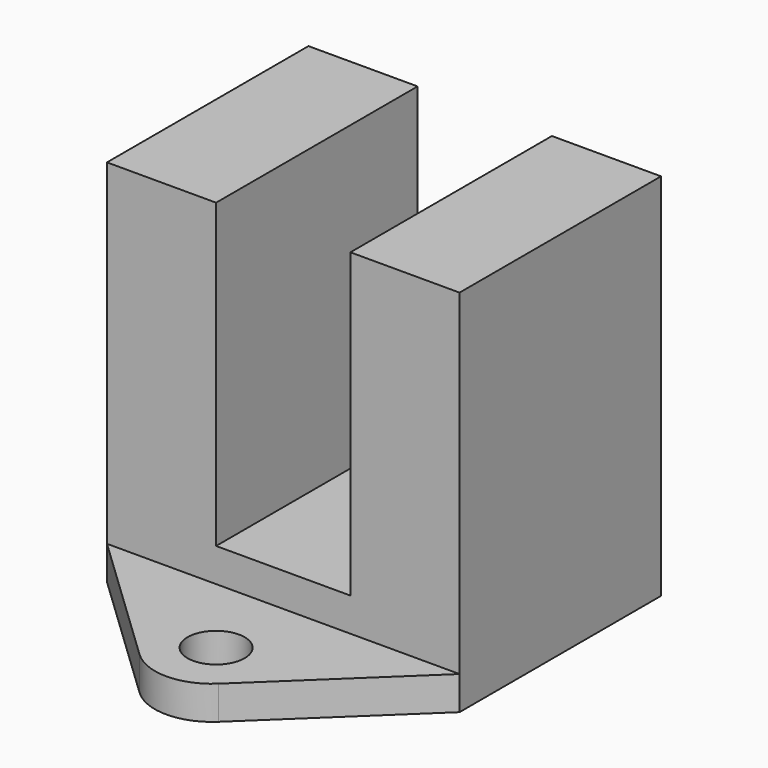
from build123d import *

# Parameters (mm, degrees)
F0_W     = 21
F0_H     = 15
F0_W_2   = 19.5
F0_H_2   = 12.75
F1_DEPTH = 22
F0_R     = 1.7
F2_DEPTH = 2
F3_R     = 3.4
F5_DEPTH = 18


with BuildPart() as f1:
    # F0 (on Top) → F1 (new body)
    with BuildSketch(Plane.XY):
        Rectangle(F0_W, F0_H)
        Rectangle(F0_W_2, F0_H_2, mode=Mode.SUBTRACT)
        Rectangle(F0_W_2, F0_H_2)
    extrude(amount=F1_DEPTH)

    # F0 (on Top) → F2 (join)
    with BuildSketch(Plane.XY):
        Polygon((10.5, -7.5), (-10.5, -7.5), (0, -17.5), align=None)
        with Locations((0, -12.5)):
            Circle(F0_R, mode=Mode.SUBTRACT)
        Polygon((0, 17.5), (-10.5, 7.5), (10.5, 7.5), align=None)
        with Locations((0, 12.5)):
            Circle(F0_R, mode=Mode.SUBTRACT)
    extrude(amount=F2_DEPTH)

    # F3
    f3_edges = [f1.edges().sort_by_distance(p)[0] for p in [
        (0, -17.5, 1),
        (0, 17.5, 1),
    ]]
    fillet(f3_edges, radius=F3_R)

    # F4 (on face) → F5 (cut)
    with BuildSketch(Plane.XY.offset(22)):
        Polygon((-4, -7.5), (0, -7.5), (4, -7.5), (4, 7.5), (-4, 7.5), align=None)
    extrude(amount=-F5_DEPTH, mode=Mode.SUBTRACT)


solid = f1.part
